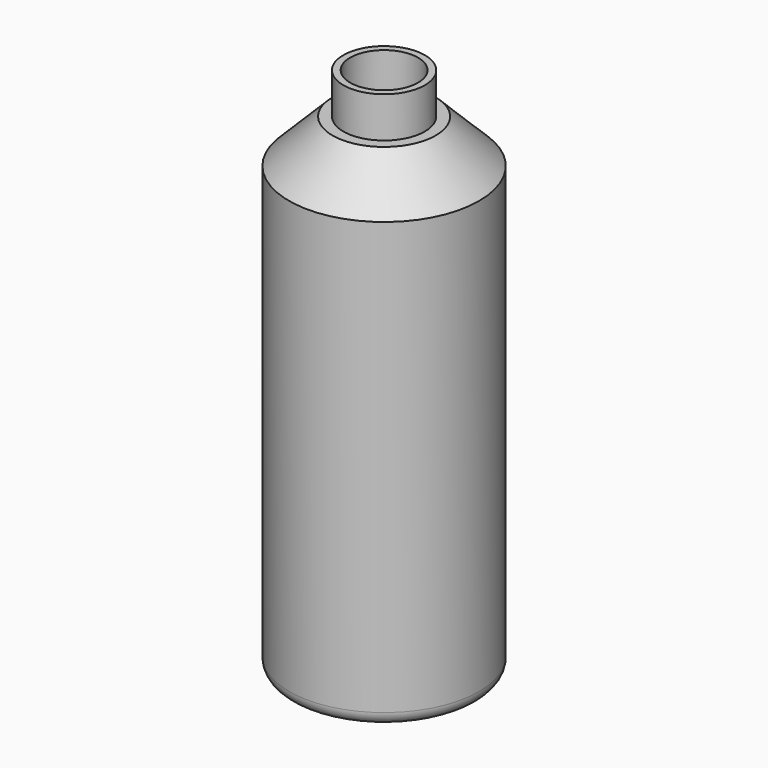
from build123d import *

# Parameters (mm, degrees)
F0_R     = 35
F1_DEPTH = 180
F2_R     = 15
F3_DEPTH = 15
F4_R     = 5
F5_SIZE  = 16
F6_R     = 17.5
F7_DEPTH = 5
F8_T     = -2.5


with BuildPart() as f1:
    # F0 (on Top) → F1 (new body)
    with BuildSketch(Plane.XY):
        Circle(F0_R)
    extrude(amount=F1_DEPTH)

    # F2 (on face) → F3 (join)
    with BuildSketch(Plane.XY.offset(180)):
        Circle(F2_R)
    extrude(amount=F3_DEPTH)

    # F4
    f4_edges = [f1.edges().sort_by_distance(p)[0] for p in [
        (-35, 0, 0),
    ]]
    fillet(f4_edges, radius=F4_R)

    # F5
    f5_edges = [f1.edges().sort_by_distance(p)[0] for p in [
        (-35, 0, 180),
    ]]
    chamfer(f5_edges, length=F5_SIZE)

    # F6 (on face) → F7 (cut)
    with BuildSketch(Plane(origin=(0, 0, 0), x_dir=(1, 0, 0), z_dir=(0, 0, -1))):
        Circle(F6_R)
    extrude(amount=-F7_DEPTH, mode=Mode.SUBTRACT)

    # F8
    f8_openings = [f1.faces().sort_by_distance(p)[0] for p in [
        (0, 0, 195),
    ]]
    offset(amount=F8_T, openings=f8_openings, kind=Kind.INTERSECTION)


solid = f1.part
